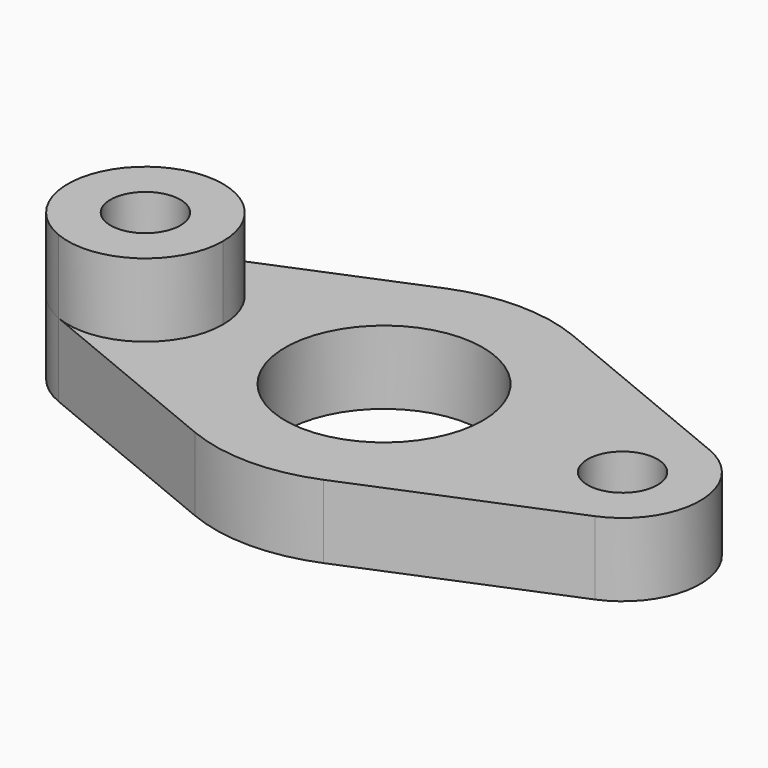
from build123d import *

# Parameters (mm, degrees)
F0_R     = 1
F0_R_2   = 2.829688
F1_DEPTH = 2.1
F2_R     = 1
F3_DEPTH = 2.1


with BuildPart() as f1:
    # F0 (on Top) → F1 (new body)
    with BuildSketch(Plane.XY):
        with BuildLine():
            Line((-1.84489, 4.463436), (-7.678017, 2.052406))
            ThreePointArc((-7.678017, 2.052406), (-9.050505, 0), (-7.678017, -2.052406))
            Line((-7.678017, -2.052406), (-1.84489, -4.463436))
            ThreePointArc((-1.84489, -4.463436), (0, -4.829688), (1.84489, -4.463436))
            Line((1.84489, -4.463436), (7.678017, -2.052406))
            ThreePointArc((7.678017, -2.052406), (9.050505, 0), (7.678017, 2.052406))
            Line((7.678017, 2.052406), (1.84489, 4.463436))
            ThreePointArc((1.84489, 4.463436), (0, 4.829687), (-1.84489, 4.463436))
        make_face()
        with Locations((-6.829688, 0)):
            Circle(F0_R, mode=Mode.SUBTRACT)
        Circle(F0_R_2, mode=Mode.SUBTRACT)
        with Locations((6.829688, 0)):
            Circle(F0_R, mode=Mode.SUBTRACT)
    extrude(amount=F1_DEPTH)


with BuildPart() as f3:
    # F2 (on face) → F3 (new body)
    with BuildSketch(Plane.XY.offset(2.1)):
        with BuildLine():
            ThreePointArc((-7.678017, -2.052406), (-5.595174, -1.846079), (-4.60887, 0))
            ThreePointArc((-4.60887, 0), (-5.595174, 1.846079), (-7.678017, 2.052406))
            ThreePointArc((-7.678017, 2.052406), (-9.050505, 0), (-7.678017, -2.052406))
        make_face()
        with Locations((-6.829688, 0)):
            Circle(F2_R, mode=Mode.SUBTRACT)
    extrude(amount=F3_DEPTH)


solid = Compound([f1.part, f3.part])
